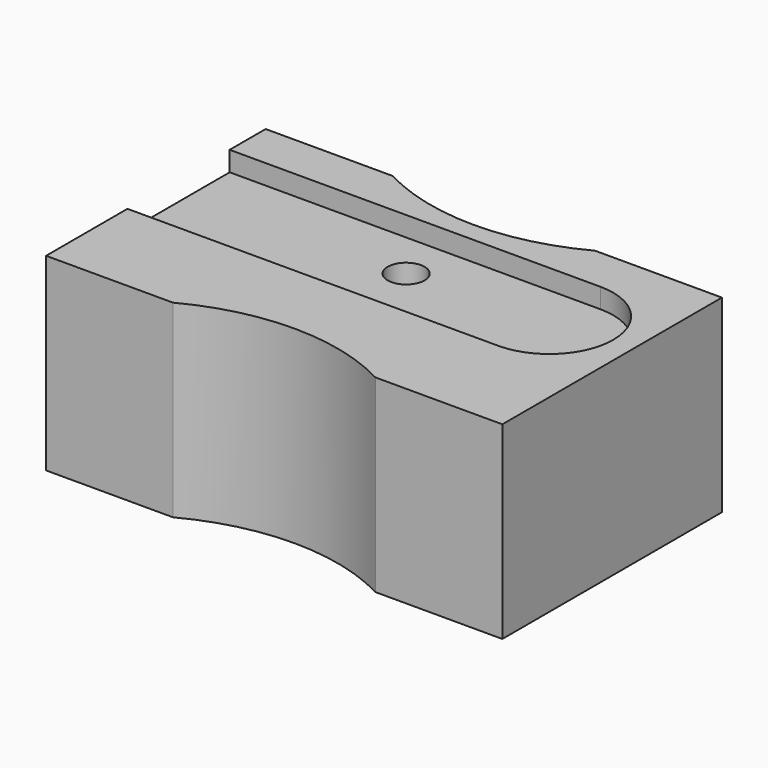
from build123d import *

# Parameters (mm, degrees)
F1_DEPTH = 10.5
F2_DEPTH = 1.1
F3_R     = 1.025
F4_DEPTH = 2.5


with BuildPart() as f1:
    # F0 (on Top) → F1 (new body)
    with BuildSketch(Plane.XY):
        with BuildLine():
            Line((-7.05, 0), (0, 0))
            Line((0, 0), (0, 15.25))
            Line((0, 15.25), (-7.05, 15.25))
            ThreePointArc((-7.05, 15.25), (-12.675, 13.856541), (-18.3, 15.25))
            Line((-18.3, 15.25), (-25.35, 15.25))
            Line((-25.35, 15.25), (-25.35, 12.75))
            Line((-25.35, 12.75), (-4.75, 12.75))
            ThreePointArc((-4.75, 12.75), (-1.2, 9.2), (-4.75, 5.65))
            Line((-4.75, 5.65), (-25.35, 5.65))
            Line((-25.35, 5.65), (-25.35, 0))
            Line((-25.35, 0), (-18.3, 0))
            ThreePointArc((-18.3, 0), (-12.675, 1.393459), (-7.05, 0))
        make_face()
        with BuildLine():
            Line((-25.35, 12.75), (-25.35, 5.65))
            Line((-25.35, 5.65), (-4.75, 5.65))
            ThreePointArc((-4.75, 5.65), (-1.2, 9.2), (-4.75, 12.75))
            Line((-4.75, 12.75), (-25.35, 12.75))
        make_face()
    extrude(amount=-F1_DEPTH)

    # F0 (on Top) → F2 (cut)
    with BuildSketch(Plane.XY):
        with BuildLine():
            Line((-25.35, 12.75), (-25.35, 5.65))
            Line((-25.35, 5.65), (-4.75, 5.65))
            ThreePointArc((-4.75, 5.65), (-1.2, 9.2), (-4.75, 12.75))
            Line((-4.75, 12.75), (-25.35, 12.75))
        make_face()
    extrude(amount=-F2_DEPTH, mode=Mode.SUBTRACT)

    # F3 (on face) → F4 (cut)
    with BuildSketch(Plane.XY.offset(-1.1)):
        with Locations((-13.425, 10.1)):
            Circle(F3_R)
    extrude(amount=-F4_DEPTH, mode=Mode.SUBTRACT)


solid = f1.part
